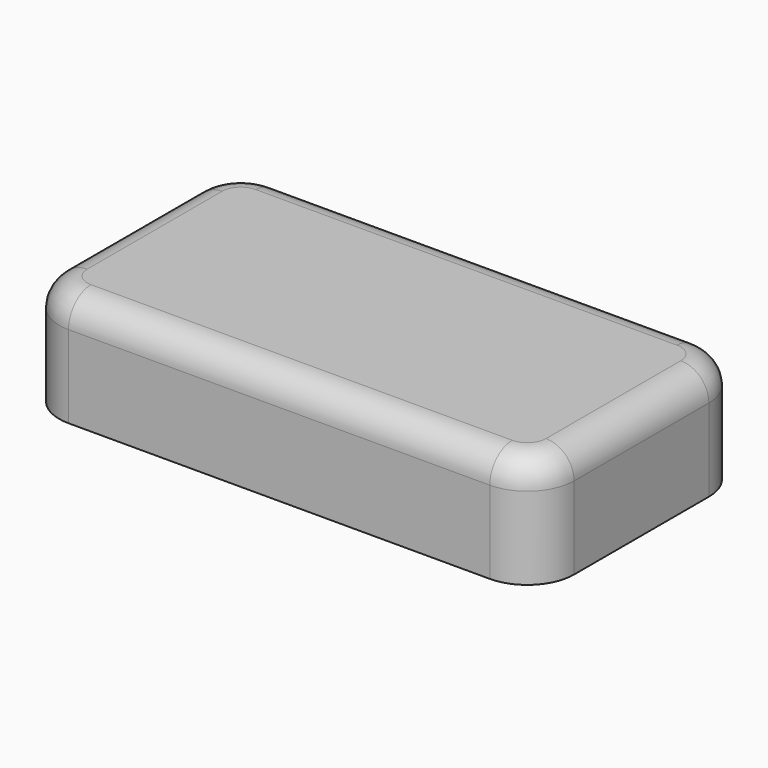
from build123d import *

# Parameters (mm, degrees)
F1_DEPTH = 300
F2_R     = 76.2


with BuildPart() as f1:
    # F0 (on Top) → F1 (new body)
    with BuildSketch(Plane.XY):
        with BuildLine():
            Line((-1270, 0), (-127, 0))
            ThreePointArc((-127, 0), (-37.197439, 37.197439), (0, 127))
            Line((0, 127), (0, 584.2))
            ThreePointArc((0, 584.2), (-37.197439, 674.002561), (-127, 711.2))
            Line((-127, 711.2), (-1270, 711.2))
            ThreePointArc((-1270, 711.2), (-1359.802561, 674.002561), (-1397, 584.2))
            Line((-1397, 584.2), (-1397, 127))
            ThreePointArc((-1397, 127), (-1359.802561, 37.197439), (-1270, 0))
        make_face()
    extrude(amount=F1_DEPTH)

    # F2
    f2_edges = [f1.edges().sort_by_distance(p)[0] for p in [
        (-698.5, 0, 300),
        (-37.197439, 37.197439, 300),
        (0, 355.6, 300),
        (-37.197439, 674.002561, 300),
        (-698.5, 711.2, 300),
        (-1359.802561, 674.002561, 300),
        (-1397, 355.6, 300),
        (-1359.802561, 37.197439, 300),
    ]]
    fillet(f2_edges, radius=F2_R)


solid = f1.part
